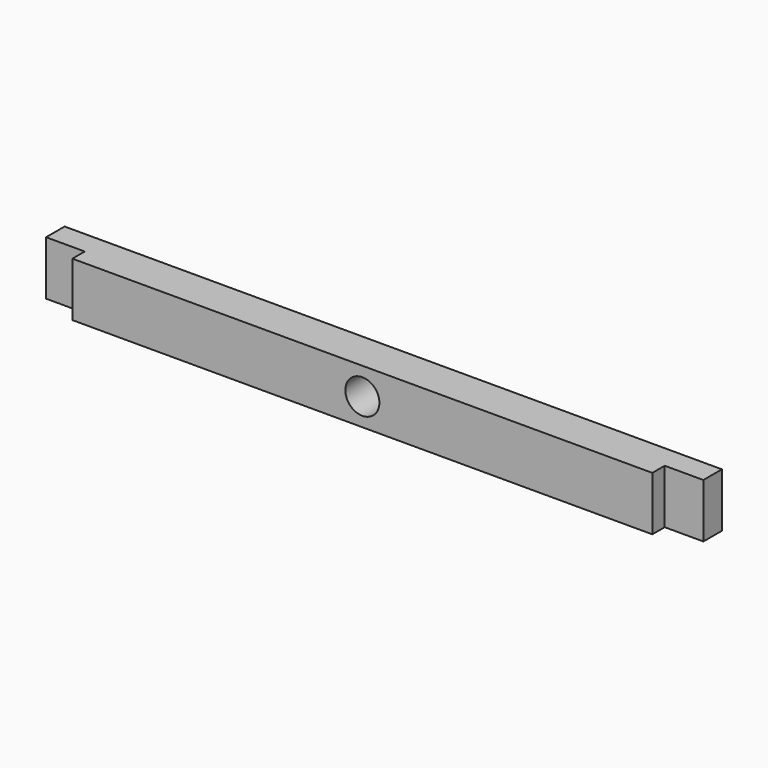
from build123d import *

# Parameters (mm, degrees)
F0_W     = 425
F0_H     = 35
F1_DEPTH = 15
F2_W     = 375
F2_H     = 35
F3_DEPTH = 10
F5_D     = 22


with BuildPart() as f1:
    # F0 (on Front) → F1 (new body)
    with BuildSketch(Plane.XZ):
        with Locations((0, 17.5)):
            Rectangle(F0_W, F0_H)
    extrude(amount=F1_DEPTH)

    # F2 (on face) → F3 (join)
    with BuildSketch(Plane.XZ.offset(15)):
        with Locations((0, 17.5)):
            Rectangle(F2_W, F2_H)
    extrude(amount=F3_DEPTH)

    # F5 (through all)
    with Locations(Plane(origin=(0, 0, 0), x_dir=(-1, 0, 0), z_dir=(0, 1, 0))):
        with Locations((0, 17.5)):
            Hole(F5_D / 2)


solid = f1.part
